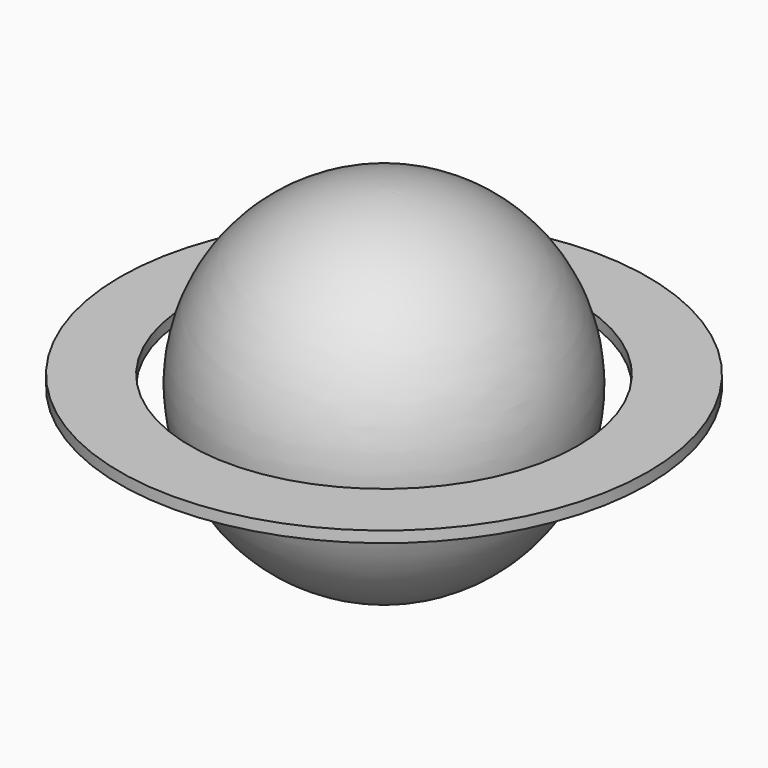
from build123d import *

# Parameters (mm, degrees)
F0_W = 10.341429
F0_H = 1.632857


with BuildPart() as f1:
    # F0 (on Front) → F1 (revolve)
    with BuildSketch(Plane.XZ):
        with BuildLine():
            Line((0, -18.913928), (0, -23.232533))
            ThreePointArc((0, -23.232533), (25.286195, 2.167467), (0, 27.567467))
            Line((0, 27.567467), (0, 22.996072))
            ThreePointArc((0, 22.996072), (20.459752, 2.041072), (0, -18.913928))
        make_face()
        with Locations((33.609643, 2.585357)):
            Rectangle(F0_W, F0_H)
    revolve(axis=Axis((0, 0, 1.224643), (0, 0, -1)))


solid = f1.part
